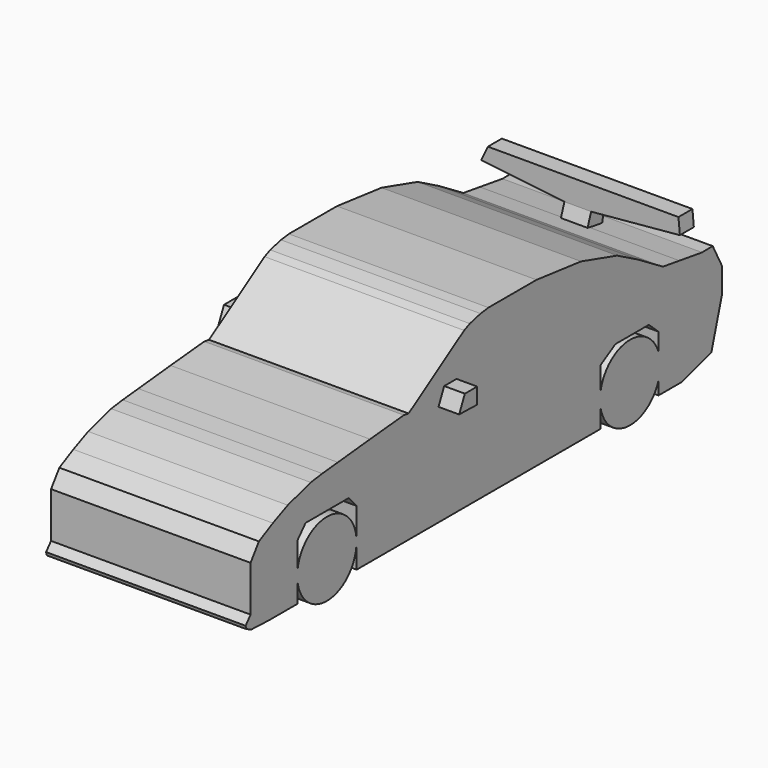
from build123d import *

# Parameters (mm, degrees)
F1_DEPTH       = 36.83
F1_FACE_W      = 36.83
F1_FACE_H      = 5.5427631503
F4_DEPTH       = 3.2258
F7_DEPTH       = 2.4638
F7_DEPTH_BACK  = 2.4638
F10_DEPTH      = 3.81
F10_DEPTH_BACK = 40.64
F13_DEPTH      = 7.366
F13_DEPTH_BACK = 2.794
F16_DEPTH      = 7.366
F16_DEPTH_BACK = 4.572
F18_DEPTH      = 19.05
F18_DEPTH_BACK = 17.78
F20_DEPTH      = 19.05
F20_DEPTH_BACK = 17.78
F23_DEPTH      = 3.2004
F24_R          = 6.8463862677
F25_DEPTH      = 6.858
F26_R          = 6.9523831829
F27_DEPTH      = 8.128


with BuildPart() as f1:
    # F0 (on Right) → F1 (new body)
    with BuildSketch(Plane.YZ):
        Polygon((48.0263121426, 2.9445304535), (53.3061549067, 2.9445304535), (60.210570693, 4.9752411433), (62.6474246383, 13.3011555299), (62.6474246383, 18.0792529136), (60.523532331, 22.1303328872), (58.04841407, 22.1036953967), (52.8332734047, 22.8859669748), (49.0416623652, 23.4547089785), (43.3556735516, 26.9069168717), (38.481965661, 29.5468401164), (30.1560536027, 31.983692199), (19.8732633144, 33.1698097289), (8.7737506256, 33.1698097289), (6.955573801, 32.9344496131), (4.4795288704, 32.3154367507), (3.1774702948, 31.739115715), (-9.6437809989, 23.4547089785), (-10.7455300167, 23.6257594079), (-18.5312218964, 22.8912606835), (-25.9602405131, 22.1459884197), (-29.5640733093, 21.787006408), (-32.2205424309, 21.4280243963), (-37.5245548785, 19.887233153), (-40.9566648304, 18.3693002909), (-44.1767536104, 16.7073179036), (-46.0984222591, 14.0065979213), (-46.0984222591, 7.6183550991), (-46.0984222591, 5.5928146467), (-47.2410358489, 4.2424551211), (-47.0601624299, 3.6198173241), (-45.890673995, 3.0998424627), (-41.9041402638, 2.9445304535), (-39.671524707, 2.9445304535), (-35.2328307927, 2.9445304535), (-35.2328307927, 13.3011555299), (-33.4051921964, 15.3318652883), (-23.4547089785, 15.3318652883), (-21.6270685196, 13.3011555299), (-21.6270685196, 2.9445304535), (34.6236154437, 2.9445304535), (34.6236154437, 13.3011555299), (38.0758270621, 15.3318652883), (45.7925237715, 15.3318652883), (48.0263121426, 13.3011555299), align=None)
    extrude(amount=F1_DEPTH)

    # F3 (on offset) + F1_face (on face) → F4 (join)
    with BuildSketch(Plane.XZ.offset(-56.388)):
        Polygon((15.4859535396, 25.3441482782), (20.4525850713, 25.3516733646), (36.6573445499, 26.837669313), (36.3948243914, 29.700446989), (1.2181646889, 29.700446989), (0, 27.0956344903), align=None)
    with BuildSketch(Plane(origin=(18.415, 40.9188196063, 28.226878494), x_dir=(-1, 0, 0), z_dir=(0, 0.4762828887, 0.8792921073))):
        Rectangle(F1_FACE_W, F1_FACE_H)
    extrude(amount=F4_DEPTH, dir=(0, -1, 0))

    # F6 (on offset) → F7 (join, two sides)
    with BuildSketch(Plane.YZ.offset(17.78)) as f7_sk:
        Polygon((53.2046183944, 25.333115831), (52.3923374712, 22.9977983981), (55.743008852, 22.3885849118), (56.3522204757, 25.333115831), align=None)
        Polygon((53.2046183944, 25.333115831), (52.3923374712, 22.9977983981), (55.743008852, 22.3885849118), (56.3522204757, 25.333115831), align=None)
    extrude(amount=F7_DEPTH)
    extrude(f7_sk.sketch, amount=-F7_DEPTH_BACK)

    # F9 (on offset) → F10 (join, two sides)
    with BuildSketch(Plane.YZ.offset(36.83)) as f10_sk:
        Polygon((-1.4214976691, 24.5715994388), (-2.7414595243, 21.728605032), (1.4214974362, 21.6270703822), (1.4214974362, 24.5715994388), align=None)
    extrude(amount=F10_DEPTH)
    extrude(f10_sk.sketch, amount=-F10_DEPTH_BACK)

    # F12 (on offset) → F13 (join, two sides)
    with BuildSketch(Plane.XZ.offset(-41.91)) as f13_sk:
        Polygon((20.2600434422, 8.7743336335), (20.2600434422, 9.910594672), (20.2600434422, 15.2083793655), (15.2342896909, 15.2083793655), (15.2342896909, 9.910594672), (15.2342896909, 8.7743336335), align=None)
    extrude(amount=F13_DEPTH)
    extrude(f13_sk.sketch, amount=-F13_DEPTH_BACK)

    # F15 (on offset) → F16 (join, two sides)
    with BuildSketch(Plane.XZ.offset(28.448)) as f16_sk:
        Polygon((20.1824773103, 8.8890520856), (20.1824773103, 14.0972845256), (20.1671663672, 15.2659900486), (15.4865300283, 15.2659900486), (15.4865300283, 14.0972845256), (15.4865300283, 8.8890520856), align=None)
    extrude(amount=F16_DEPTH)
    extrude(f16_sk.sketch, amount=-F16_DEPTH_BACK)

    # F17 (on offset) → F18 (join, two sides)
    with BuildSketch(Plane.YZ.offset(17.78)) as f18_sk:
        Polygon((-28.0869510025, 10.6080779806), (-28.4391473979, 10.6080779806), (-28.8233608007, 10.6080779806), (-28.8233608007, 10.1705007255), (-28.8233608007, 9.7862863913), (-28.4498203546, 9.7862863913), (-28.0762780458, 9.7862863913), (-28.0762780458, 10.1705007255), align=None)
    extrude(amount=F18_DEPTH)
    extrude(f18_sk.sketch, amount=-F18_DEPTH_BACK)

    # F19 (on offset) → F20 (join, two sides)
    with BuildSketch(Plane.YZ.offset(17.78)) as f20_sk:
        Polygon((42.2930158675, 10.5587802827), (41.8995656073, 10.5587802827), (41.5188074112, 10.5587802827), (41.5188074112, 9.7845718265), (41.8995656073, 9.7845718265), (42.2930158675, 9.7845718265), (42.2930158675, 10.1780220866), align=None)
    extrude(amount=F20_DEPTH)
    extrude(f20_sk.sketch, amount=-F20_DEPTH_BACK)

    # F22 (on offset) → F23 (join)
    with BuildSketch(Plane.XZ.offset(-61.468)):
        Polygon((35.7542745769, 5.260670092), (35.7542745769, 6.7096315324), (35.3337042034, 7.0807840675), (33.6583703756, 7.0807840675), (33.3283767104, 6.7254095338), (33.3283767104, 5.260670092), (33.8614396751, 4.9739219248), (35.2829359472, 4.9739219248), align=None)
        Polygon((3.2403937075, 4.9383174628), (3.2403937075, 6.768678176), (2.5762754958, 7.0807840675), (1.283939695, 7.0807840675), (0.7275173557, 6.6793817095), (0.7275173557, 5.135757383), (1.1582964798, 4.6511315741), (2.4506326299, 4.6511315741), align=None)
    extrude(amount=F23_DEPTH)

    # F24 (on offset) → F25 (join)
    with BuildSketch(Plane.YZ.offset(36.83)):
        with Locations((-28.4930635244, 7.4944184162)):
            Circle(F24_R)
    extrude(amount=-F25_DEPTH)

    # F26 (on offset) → F27 (join)
    with BuildSketch(Plane.YZ.offset(36.83)):
        with Locations((41.4637811482, 7.7151083387)):
            Circle(F26_R)
    extrude(amount=-F27_DEPTH)


solid = f1.part
